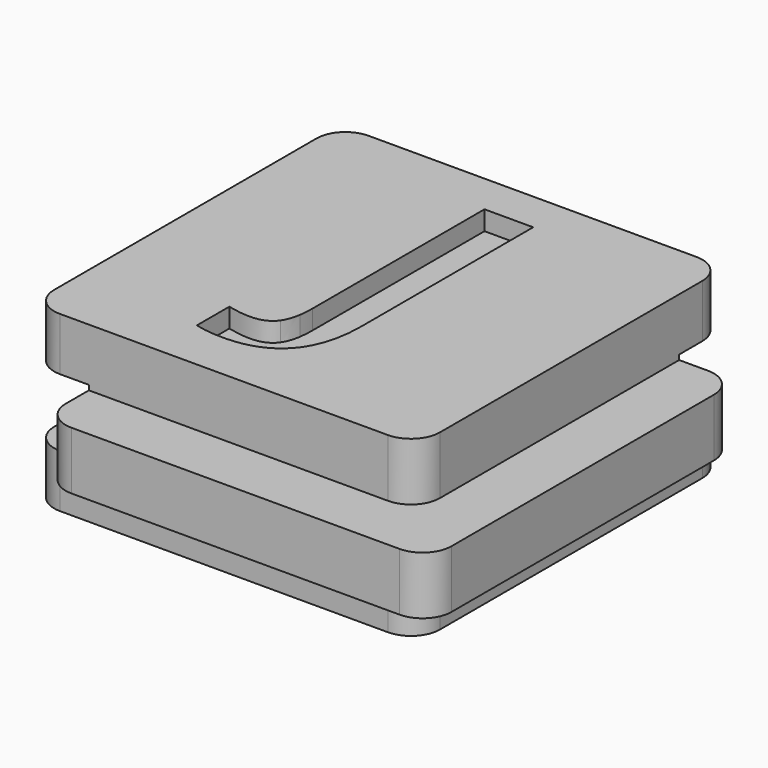
from build123d import *

# Parameters (mm, degrees)
F0_W      = 14
F0_H      = 3
F0_W_2    = 3
F1_DEPTH  = 20
F2_DEPTH  = 3
F3_W      = 3
F3_H      = 3
F4_DEPTH  = 100
F5_W      = 3
F5_H      = 3.5
F6_DEPTH  = 100
F7_R      = 1.5
F9_DEPTH  = 1
F10_DEPTH = 1


with BuildPart() as f1:
    # F0 (on Front) → F1 (new body)
    with BuildSketch(Plane.XZ):
        Polygon((10, 1.5), (10, 4.5), (-10, 4.5), (-10, 1.5), (-7, 1.5), (7, 1.5), align=None)
        Rectangle(F0_W, F0_H)
        with Locations((11.5, 0)):
            Rectangle(F0_W_2, F0_H)
        with Locations((8.5, 0)):
            Rectangle(F0_W_2, F0_H)
        with Locations((-8.5, 0)):
            Rectangle(F0_W_2, F0_H)
        Polygon((10, -4.5), (10, -1.5), (7, -1.5), (-7, -1.5), (-10, -1.5), (-10, -4.5), align=None)
    extrude(amount=-F1_DEPTH)

    # F0 (on Front) → F2 (join)
    with BuildSketch(Plane.XZ):
        with Locations((-8.5, 0)):
            Rectangle(F0_W_2, F0_H)
        Rectangle(F0_W, F0_H)
        with Locations((8.5, 0)):
            Rectangle(F0_W_2, F0_H)
        with Locations((11.5, 0)):
            Rectangle(F0_W_2, F0_H)
    extrude(amount=F2_DEPTH)

    # F3 (on face) → F4 (cut)
    with BuildSketch(Plane.YZ.offset(13)):
        Polygon((23, -1.75), (23, 1.75), (17, 1.75), (17, 1.5), (20, 1.5), (20, -1.5), (17, -1.5), (17, -1.75), align=None)
        with Locations((18.5, 0)):
            Rectangle(F3_W, F3_H)
    extrude(amount=-F4_DEPTH, mode=Mode.SUBTRACT)

    # F5 (on face) → F6 (cut)
    with BuildSketch(Plane(origin=(0, 17, 0), x_dir=(-1, 0, 0), z_dir=(0, 1, 0))):
        with Locations((11.5, 0)):
            Rectangle(F5_W, F5_H)
        with Locations((8.5, 0)):
            Rectangle(F5_W, F5_H)
    extrude(amount=-F6_DEPTH, mode=Mode.SUBTRACT)

    # F7
    f7_edges = [f1.edges().sort_by_distance(p)[0] for p in [
        (-7, -3, 0),
        (13, -3, 0),
        (10, 0, 3),
        (10, 0, -3),
        (-10, 0, -3.125),
        (-10, 0, 3.125),
        (-7, 17, 0),
        (-10, 20, 3.125),
        (-10, 20, -3.125),
        (13, 17, 0),
        (10, 20, 3.125),
        (10, 20, -3.125),
    ]]
    fillet(f7_edges, radius=F7_R)

    # F8 (on face) → F9 (cut)
    with BuildSketch(Plane.XY.offset(4.5)):
        with BuildLine():
            add(Edge.make_bspline(
                [(1.6788760671, 6), (1.5308734468, 4.4721571739), (0.7623540077, 3.5911458333)],
                knots=[0.1925814922, 0.1925814922, 0.1925814922, 1, 1, 1], degree=2))
            Line((1.6788760671, 6), (-0.8607862189, 6))
            add(Edge.make_bspline(
                [(-1.1673334923, 5.1341145833), (-0.9450911222, 5.4549517504), (-0.8607862189, 6)],
                knots=[0, 0, 0, 0.6206623282, 0.6206623282, 0.6206623282], degree=2))
            add(Edge.make_bspline(
                [(-2.3561355757, 4.6171875), (-1.525406409, 4.6171875), (-1.1673334923, 5.1341145833)],
                knots=[0, 0, 0, 1, 1, 1], degree=2))
            add(Edge.make_bspline(
                [(-3.5436355757, 4.7786458333), (-2.892593909, 4.6171875), (-2.3561355757, 4.6171875)],
                knots=[0, 0, 0, 1, 1, 1], degree=2))
            Line((-3.5436355757, 4.7786458333), (-3.5436355757, 2.6796875))
            add(Edge.make_bspline(
                [(-2.0540522423, 2.5), (-2.908218909, 2.5), (-3.5436355757, 2.6796875)],
                knots=[0, 0, 0, 1, 1, 1], degree=2))
            add(Edge.make_bspline(
                [(0.7623540077, 3.5911458333), (-0.189468909, 2.5), (-2.0540522423, 2.5)],
                knots=[0, 0, 0, 1, 1, 1], degree=2))
        make_face()
    extrude(amount=-F9_DEPTH, mode=Mode.SUBTRACT)

    # F8 (on face) → F10 (cut)
    with BuildSketch(Plane.XY.offset(4.5)):
        with BuildLine():
            Line((-0.8607862189, 6), (1.6788760671, 6))
            add(Edge.make_bspline(
                [(1.7141769243, 6.765625), (1.7141769243, 6.364413558), (1.6788760671, 6)],
                knots=[0, 0, 0, 0.1925814922, 0.1925814922, 0.1925814922], degree=2))
            Line((1.7141769243, 6.765625), (1.7141769243, 17.8984375))
            Line((1.7141769243, 17.8984375), (-0.8092605757, 17.8984375))
            Line((-0.8092605757, 17.8984375), (-0.8092605757, 6.75))
            add(Edge.make_bspline(
                [(-0.8607862189, 6), (-0.8092605757, 6.3331237045), (-0.8092605757, 6.75)],
                knots=[0.6206623282, 0.6206623282, 0.6206623282, 1, 1, 1], degree=2))
        make_face()
    extrude(amount=-F10_DEPTH, mode=Mode.SUBTRACT)


solid = f1.part
